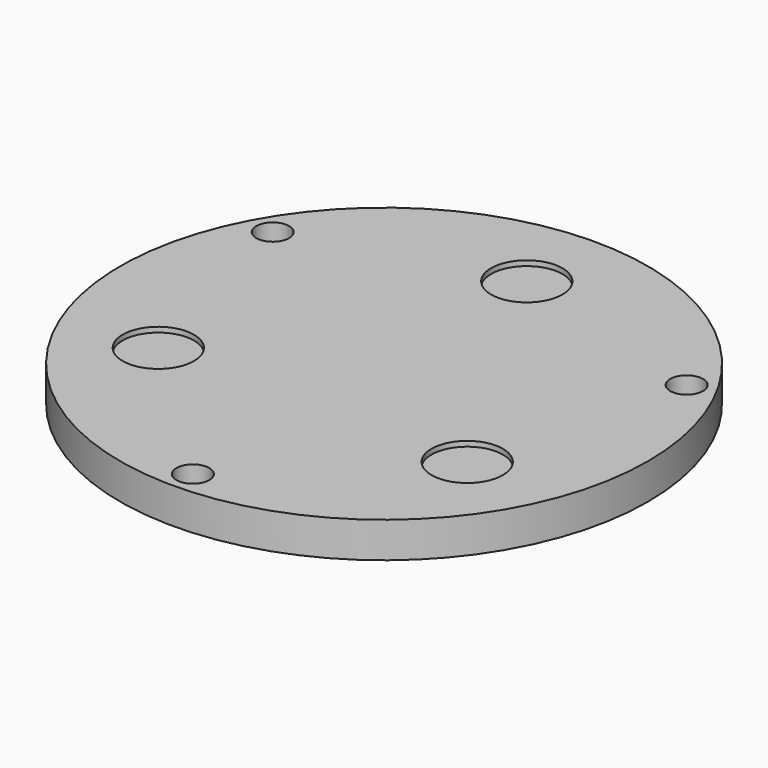
from build123d import *

# Parameters (mm, degrees)
F0_R     = 46.99
F1_DEPTH = 6.35
F2_R     = 6.35
F3_DEPTH = 0.9144
F4_R     = 2.921
F5_DEPTH = 3.175
F6_R     = 1.65
F7_DEPTH = 25.4


with BuildPart() as f1:
    # F0 (on Top) → F1 (new body)
    with BuildSketch(Plane.XY):
        Circle(F0_R)
    extrude(amount=F1_DEPTH)

    # F2 (on face) → F3 (cut)
    with BuildSketch(Plane.XY.offset(6.35)):
        with Locations((0, 31.75)):
            Circle(F2_R)
        with Locations((-27.496307, -15.875)):
            Circle(F2_R)
        with Locations((27.496307, -15.875)):
            Circle(F2_R)
    extrude(amount=-F3_DEPTH, mode=Mode.SUBTRACT)

    # F4 (on face) → F5 (cut)
    with BuildSketch(Plane.XY.offset(6.35)):
        with Locations((0, -42.545)):
            Circle(F4_R)
        with Locations((-36.845051, 21.2725)):
            Circle(F4_R)
        with Locations((36.845051, 21.2725)):
            Circle(F4_R)
    extrude(amount=-F5_DEPTH, mode=Mode.SUBTRACT)

    # F6 (on face) → F7 (cut)
    with BuildSketch(Plane.XY.offset(6.35)):
        with Locations((-36.845051, 21.2725)):
            Circle(F6_R)
        with Locations((36.845051, 21.2725)):
            Circle(F6_R)
        with Locations((0, -42.545)):
            Circle(F6_R)
    extrude(amount=-F7_DEPTH, mode=Mode.SUBTRACT)


solid = f1.part
